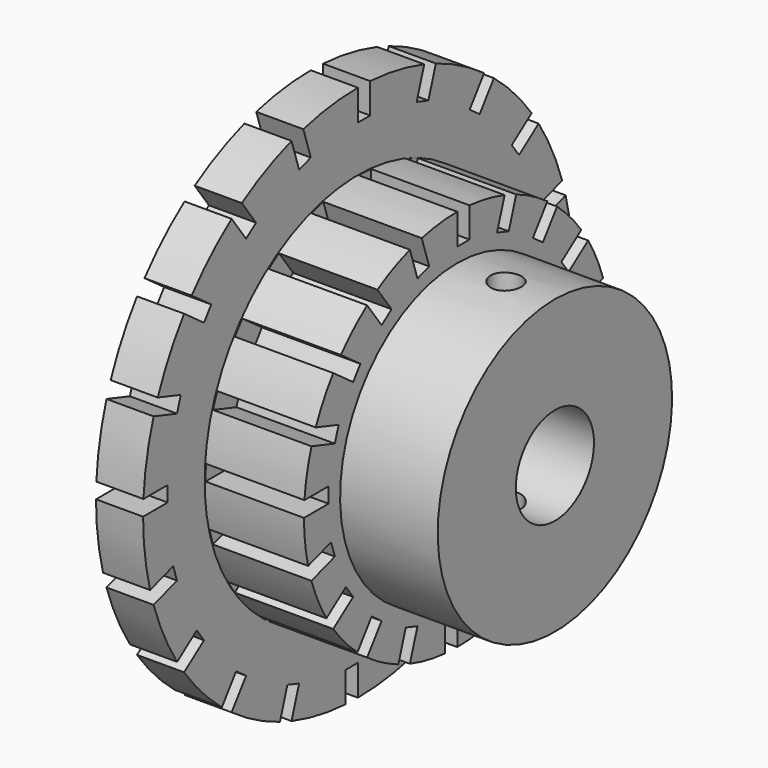
from build123d import *

# Parameters (mm, degrees)
F2_W           = 6.462606608
F2_H           = 5
F6_DEPTH       = 25
F8_DEPTH       = 6.4
F9_R           = 1
F10_DEPTH      = 25
F10_DEPTH_BACK = 25


with BuildPart() as f1:
    # F0 (on Front) → F1 (revolve)
    with BuildSketch(Plane.XZ):
        Polygon((-2.1311641825, 3.175), (13.7438358175, 3.175), (13.7438358175, 9.525), (7.3938358175, 9.525), (7.3938358175, 17.4625), (-2.1311641825, 17.4625), align=None)
    revolve(axis=Axis((-0.1440437246, 0, 0), (-1, 0, 0)))

    # F2 (on Top) → F4 (revolve, cut)
    with BuildSketch(Plane.XY):
        with Locations((4.1625325135, 14.9625)):
            Rectangle(F2_W, F2_H)
    revolve(axis=Axis((2.6512277545, 0, 0), (1, 0, 0)), mode=Mode.SUBTRACT)

    # F5 (on face) → F6 (cut)
    with BuildSketch(Plane.YZ.offset(0.9312292095)):
        Polygon((1, 18.0356875062), (0, 18.0135797709), (0, 15.4625), (1, 15.4625), align=None)
        Polygon((-3.8271187592, 15.0147283776), (-4.6222774284, 17.461975123), (-5.5665022787, 17.1319324229), (-4.7781752755, 14.7057113832), align=None)
        Polygon((-8.2796124692, 13.0972105278), (-9.7920941367, 15.17896295), (-10.5881165303, 14.5732921642), (-9.0886294636, 12.5094252755), align=None)
        Polygon((-11.9216400232, 9.8976464579), (-14.0033924455, 11.4101281255), (-14.5732921642, 10.5881165303), (-12.5094252755, 9.0886294636), align=None)
        Polygon((-14.3966943888, 5.7292317918), (-16.8439411343, 6.5243904609), (-17.1319324229, 5.5665022787), (-14.7057113832, 4.7781752755), align=None)
        Polygon((-15.4625, 1), (-18.0356875062, 1), (-18.0135797709, 0), (-15.4625, 0), align=None)
        Polygon((-15.0147283776, -3.8271187592), (-17.461975123, -4.6222774284), (-17.1319324229, -5.5665022787), (-14.7057113832, -4.7781752755), align=None)
        Polygon((-13.0972105278, -8.2796124692), (-15.17896295, -9.7920941367), (-14.5732921642, -10.5881165303), (-12.5094252755, -9.0886294636), align=None)
        Polygon((-9.8976464579, -11.9216400232), (-11.4101281255, -14.0033924455), (-10.5881165303, -14.5732921642), (-9.0886294636, -12.5094252755), align=None)
        Polygon((-5.7292317918, -14.3966943888), (-6.5243904609, -16.8439411343), (-5.5665022787, -17.1319324229), (-4.7781752755, -14.7057113832), align=None)
        Polygon((-1, -15.4625), (-1, -18.0356875062), (0, -18.0135797709), (0, -15.4625), align=None)
        Polygon((3.8271187592, -15.0147283776), (4.6222774284, -17.461975123), (5.5665022787, -17.1319324229), (4.7781752755, -14.7057113832), align=None)
        Polygon((8.2796124692, -13.0972105278), (9.7920941367, -15.17896295), (10.5881165303, -14.5732921642), (9.0886294636, -12.5094252755), align=None)
        Polygon((11.9216400232, -9.8976464579), (14.0033924455, -11.4101281255), (14.5732921642, -10.5881165303), (12.5094252755, -9.0886294636), align=None)
        Polygon((14.3966943888, -5.7292317918), (16.8439411343, -6.5243904609), (17.1319324229, -5.5665022787), (14.7057113832, -4.7781752755), align=None)
        Polygon((15.4625, -1), (18.0356875062, -1), (18.0135797709, 0), (15.4625, 0), align=None)
        Polygon((15.0147283776, 3.8271187592), (17.461975123, 4.6222774284), (17.1319324229, 5.5665022787), (14.7057113832, 4.7781752755), align=None)
        Polygon((13.0972105278, 8.2796124692), (15.17896295, 9.7920941367), (14.5732921642, 10.5881165303), (12.5094252755, 9.0886294636), align=None)
        Polygon((9.8976464579, 11.9216400232), (11.4101281255, 14.0033924455), (10.5881165303, 14.5732921642), (9.0886294636, 12.5094252755), align=None)
        Polygon((5.7292317918, 14.3966943888), (6.5243904609, 16.8439411343), (5.5665022787, 17.1319324229), (4.7781752755, 14.7057113832), align=None)
    extrude(amount=-F6_DEPTH, mode=Mode.SUBTRACT)

    # F7 (on face) → F8 (cut)
    with BuildSketch(Plane.YZ.offset(7.3938358175)):
        Polygon((1, 12.9332104698), (0, 12.8587661311), (0, 10.4625), (1, 10.4625), align=None)
        Polygon((-2.2820337874, 10.2594457961), (-3.0455253107, 12.6092310883), (-3.9735772612, 12.2294133205), (-3.2330903036, 9.9504288017), align=None)
        Polygon((-5.3406862077, 9.0521255559), (-6.7929333846, 11.0509723142), (-7.5581930945, 10.4029603268), (-6.1497032021, 8.4643403036), align=None)
        Polygon((-7.8765550514, 6.9587201965), (-9.8754018096, 8.4109673733), (-10.4029603268, 7.5581930945), (-8.4643403036, 6.1497032021), align=None)
        Polygon((-9.6414118074, 4.1841468199), (-11.9911970995, 4.9476383433), (-12.2294133205, 3.9735772612), (-9.9504288017, 3.2330903036), align=None)
        Polygon((-10.4625, 1), (-12.9332104698, 1), (-12.8587661311, 0), (-10.4625, 0), align=None)
        Polygon((-10.2594457961, -2.2820337874), (-12.6092310883, -3.0455253107), (-12.2294133205, -3.9735772612), (-9.9504288017, -3.2330903036), align=None)
        Polygon((-9.0521255559, -5.3406862077), (-11.0509723142, -6.7929333846), (-10.4029603268, -7.5581930945), (-8.4643403036, -6.1497032021), align=None)
        Polygon((-6.9587201965, -7.8765550514), (-8.4109673733, -9.8754018096), (-7.5581930945, -10.4029603268), (-6.1497032021, -8.4643403036), align=None)
        Polygon((-4.1841468199, -9.6414118074), (-4.9476383433, -11.9911970995), (-3.9735772612, -12.2294133205), (-3.2330903036, -9.9504288017), align=None)
        Polygon((-1, -10.4625), (-1, -12.9332104698), (0, -12.8587661311), (0, -10.4625), align=None)
        Polygon((2.2820337874, -10.2594457961), (3.0455253107, -12.6092310883), (3.9735772612, -12.2294133205), (3.2330903036, -9.9504288017), align=None)
        Polygon((5.3406862077, -9.0521255559), (6.7929333846, -11.0509723142), (7.5581930945, -10.4029603268), (6.1497032021, -8.4643403036), align=None)
        Polygon((7.8765550514, -6.9587201965), (9.8754018096, -8.4109673733), (10.4029603268, -7.5581930945), (8.4643403036, -6.1497032021), align=None)
        Polygon((9.6414118074, -4.1841468199), (11.9911970995, -4.9476383433), (12.2294133205, -3.9735772612), (9.9504288017, -3.2330903036), align=None)
        Polygon((10.4625, -1), (12.9332104698, -1), (12.8587661311, 0), (10.4625, 0), align=None)
        Polygon((10.2594457961, 2.2820337874), (12.6092310883, 3.0455253107), (12.2294133205, 3.9735772612), (9.9504288017, 3.2330903036), align=None)
        Polygon((9.0521255559, 5.3406862077), (11.0509723142, 6.7929333846), (10.4029603268, 7.5581930945), (8.4643403036, 6.1497032021), align=None)
        Polygon((6.9587201965, 7.8765550514), (8.4109673733, 9.8754018096), (7.5581930945, 10.4029603268), (6.1497032021, 8.4643403036), align=None)
        Polygon((4.1841468199, 9.6414118074), (4.9476383433, 11.9911970995), (3.9735772612, 12.2294133205), (3.2330903036, 9.9504288017), align=None)
    extrude(amount=-F8_DEPTH, mode=Mode.SUBTRACT)

    # F9 (on Top) → F10 (cut, two sides)
    with BuildSketch(Plane.XY) as f10_sk:
        with Locations((10.5688358175, 0)):
            Circle(F9_R)
    extrude(amount=-F10_DEPTH, mode=Mode.SUBTRACT)
    extrude(f10_sk.sketch, amount=F10_DEPTH_BACK, mode=Mode.SUBTRACT)


solid = f1.part
